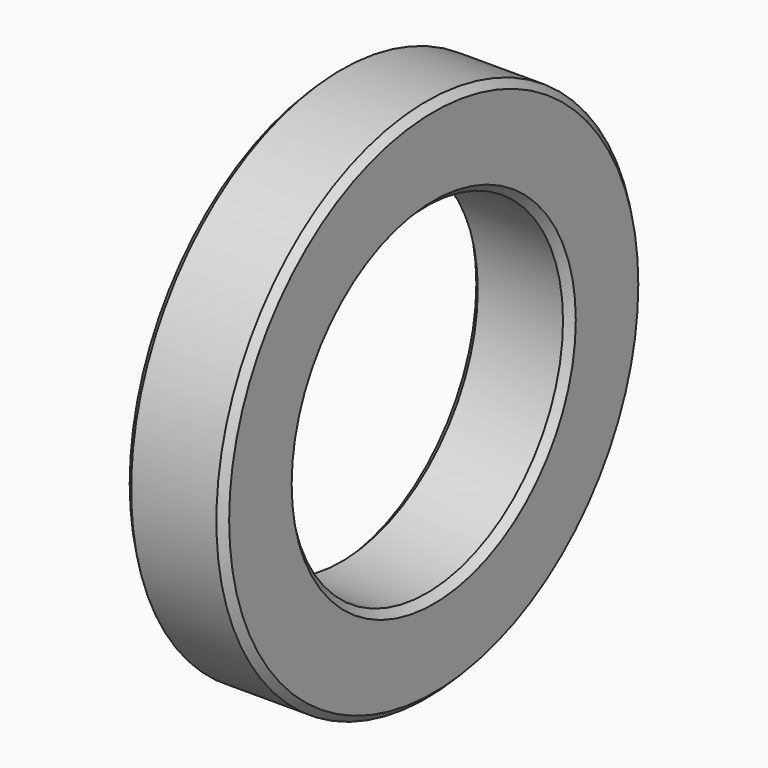
from build123d import *

# Parameters (mm, degrees)
F0_R     = 18.5
F0_R_2   = 12
F1_DEPTH = 7
F2_SIZE  = 0.5


with BuildPart() as f1:
    # F0 (on Right) → F1 (new body)
    with BuildSketch(Plane.YZ):
        Circle(F0_R)
        Circle(F0_R_2, mode=Mode.SUBTRACT)
    extrude(amount=F1_DEPTH)

    # F2
    f2_edges = [f1.edges().sort_by_distance(p)[0] for p in [
        (0, -18.5, 0),
        (7, -18.5, 0),
        (0, -12, 0),
        (7, -12, 0),
    ]]
    chamfer(f2_edges, length=F2_SIZE)


solid = f1.part
